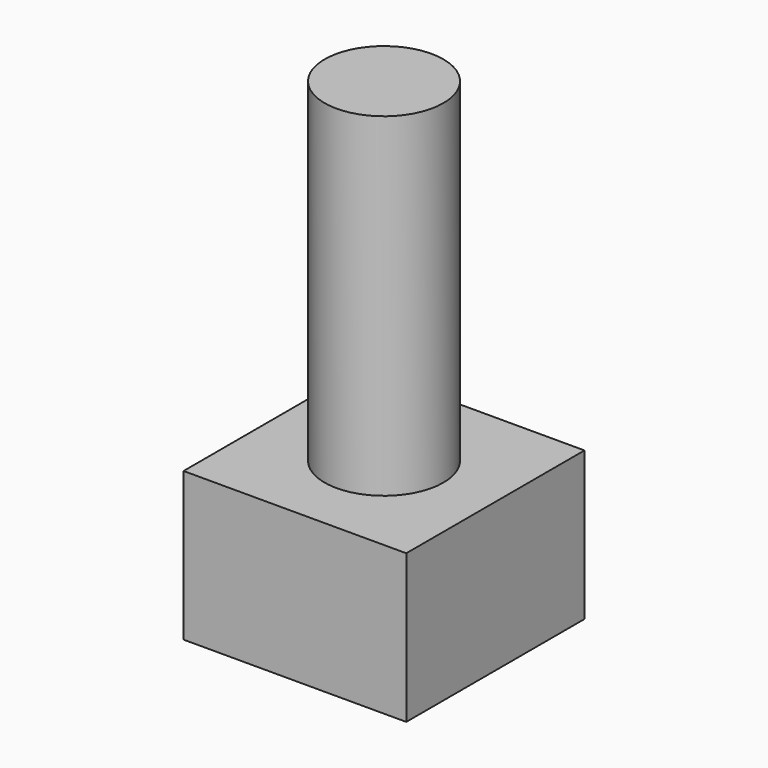
from build123d import *

# Parameters (mm, degrees)
F0_W     = 6
F0_H     = 6
F0_R     = 1.6
F1_DEPTH = 4
F2_DEPTH = 9


with BuildPart() as f1:
    # F0 (on Top) → F1 (new body)
    with BuildSketch(Plane.XY):
        Rectangle(F0_W, F0_H)
        Circle(F0_R, mode=Mode.SUBTRACT)
        Circle(F0_R)
    extrude(amount=-F1_DEPTH)

    # F0 (on Top) → F2 (join)
    with BuildSketch(Plane.XY):
        Circle(F0_R)
    extrude(amount=F2_DEPTH)


solid = f1.part
